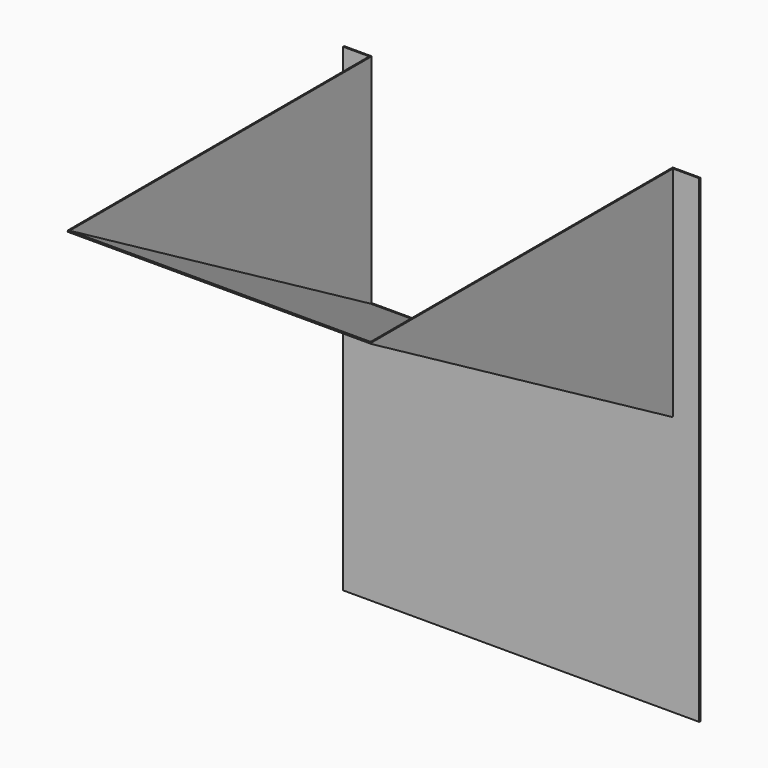
from build123d import *

# Parameters (mm, degrees)
F1_DEPTH = 3
F3_DEPTH = 3
F5_DEPTH = 3
F6_W     = 660
F6_H     = 944.517678
F7_DEPTH = 3
F8_DEPTH = 3


with BuildPart() as f1:
    # F0 (on Front) → F1 (new body)
    with BuildSketch(Plane.XZ):
        Polygon((-387, 1045), (-387, 165.699527), (-387, 5), (387, 5), (387, 165.699527), (387, 1045), (327, 1045), (327, 572.928839), (-327, 572.928839), (-327, 1045), align=None)
    extrude(amount=F1_DEPTH)

    # F2 (on face) → F3 (join)
    with BuildSketch(Plane(origin=(327, 0, 0), x_dir=(0, -1, 0), z_dir=(-1, 0, 0))):
        Polygon((820.651236, 1045), (0, 1045), (0, 572.928839), (3, 572.928839), align=None)
        Polygon((820.651236, 1045), (3, 1045), (3, 572.928839), align=None)
    extrude(amount=-F3_DEPTH)

    # F4 (on face) → F5 (join)
    with BuildSketch(Plane.YZ.offset(-327)):
        Polygon((0, 1045), (-3, 1045), (-820.651236, 1045), (-3, 572.928839), (0, 572.928839), align=None)
    extrude(amount=-F5_DEPTH)

    # F6 (on face) → F7 (join)
    with BuildSketch(Plane(origin=(0, 247.335464, 428.397591), x_dir=(1, 0, 0), z_dir=(0, -0.5, -0.866025))):
        with Locations((0, 760.945979)):
            Rectangle(F6_W, F6_H)
    extrude(amount=F7_DEPTH)

    # F6 (on face) → F8 (join)
    with BuildSketch(Plane(origin=(0, 247.335464, 428.397591), x_dir=(1, 0, 0), z_dir=(0, -0.5, -0.866025))):
        with Locations((0, 760.945979)):
            Rectangle(F6_W, F6_H)
    extrude(amount=F8_DEPTH)


solid = f1.part
